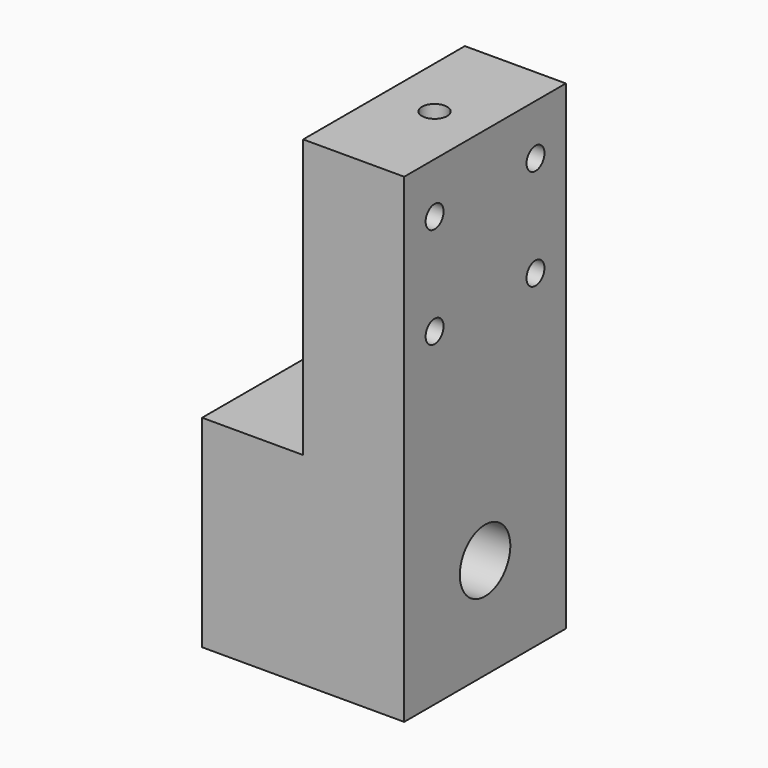
from build123d import *

# Parameters (mm, degrees)
F1_DEPTH  = 25.4
F2_R      = 1.5875
F3_DEPTH  = 49.022
F4_R      = 3.96875
F5_DEPTH  = 25.4
F6_R      = 1.4097
F7_DEPTH  = 25.4
F9_R      = 2.3876
F10_DEPTH = 3.175
F11_R     = 0.99695
F12_DEPTH = 12.7
F13_R     = 1.5875
F14_DEPTH = 13.716


with BuildPart() as f1:
    # F0 (on Front) → F1 (new body)
    with BuildSketch(Plane.XZ):
        Polygon((0, 25.4), (0, 0), (25.4, 0), (25.4, 60.325), (12.7, 60.325), (12.7, 25.4), align=None)
    extrude(amount=F1_DEPTH)

    # F2 (on face) → F3 (cut)
    with BuildSketch(Plane.XY.offset(60.325)):
        with Locations((19.05, -12.7)):
            Circle(F2_R)
    extrude(amount=-F3_DEPTH, mode=Mode.SUBTRACT)

    # F4 (on face) → F5 (cut)
    with BuildSketch(Plane(origin=(0, 0, 0), x_dir=(0, -1, 0), z_dir=(-1, 0, 0))):
        with Locations((12.7, 12.7)):
            Circle(F4_R)
    extrude(amount=-F5_DEPTH, mode=Mode.SUBTRACT)

    # F6 (on face) → F7 (cut)
    with BuildSketch(Plane(origin=(12.7, 0, 0), x_dir=(0, -1, 0), z_dir=(-1, 0, 0))):
        with Locations((4.7752, 53.975)):
            Circle(F6_R)
        with Locations((4.7752, 41.275)):
            Circle(F6_R)
        with Locations((20.6248, 53.975)):
            Circle(F6_R)
        with Locations((20.6248, 41.275)):
            Circle(F6_R)
    extrude(amount=-F7_DEPTH, mode=Mode.SUBTRACT)

    # F9 (on face) → F10 (cut)
    with BuildSketch(Plane(origin=(12.7, 0, 0), x_dir=(0, -1, 0), z_dir=(-1, 0, 0))):
        with Locations((4.7752, 53.975)):
            Circle(F9_R)
        with Locations((4.7752, 41.275)):
            Circle(F9_R)
        with Locations((20.6248, 41.275)):
            Circle(F9_R)
        with Locations((20.6248, 53.975)):
            Circle(F9_R)
    extrude(amount=-F10_DEPTH, mode=Mode.SUBTRACT)

    # F11 (on face) → F12 (cut)
    with BuildSketch(Plane(origin=(0, 0, 0), x_dir=(1, 0, 0), z_dir=(0, 0, -1))):
        with Locations((12.7, 19.05)):
            Circle(F11_R)
        with Locations((12.7, 6.35)):
            Circle(F11_R)
    extrude(amount=-F12_DEPTH, mode=Mode.SUBTRACT)

    # F13 (on face) → F14 (cut)
    with BuildSketch(Plane.XY.offset(25.4)):
        with Locations((6.35, -12.7)):
            Circle(F13_R)
    extrude(amount=-F14_DEPTH, mode=Mode.SUBTRACT)


solid = f1.part
